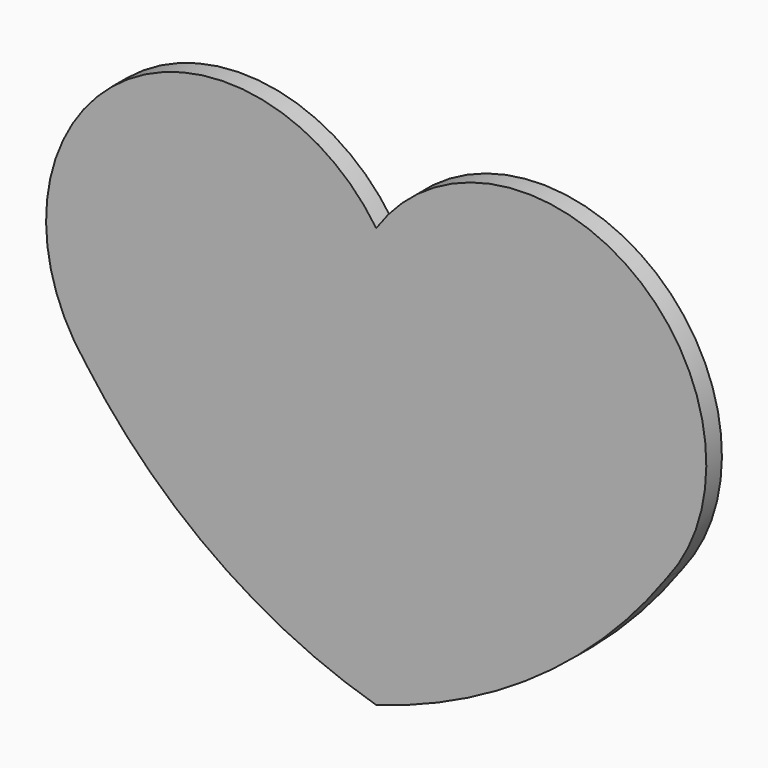
from build123d import *

# Parameters (mm, degrees)
F1_DEPTH = 3


with BuildPart() as f1:
    # F0 (on Front) → F1 (new body)
    with BuildSketch(Plane.XZ):
        with BuildLine():
            ThreePointArc((44.658669, -17.391961), (39.486773, 22.349368), (0, 15.499806))
            ThreePointArc((0, 15.499806), (-39.486773, 22.349368), (-44.658669, -17.391961))
            ThreePointArc((-44.658669, -17.391961), (-24.976758, -36.965488), (0, -49.075902))
            ThreePointArc((0, -49.075902), (24.976758, -36.965488), (44.658669, -17.391961))
        make_face()
    extrude(amount=F1_DEPTH)


solid = f1.part
